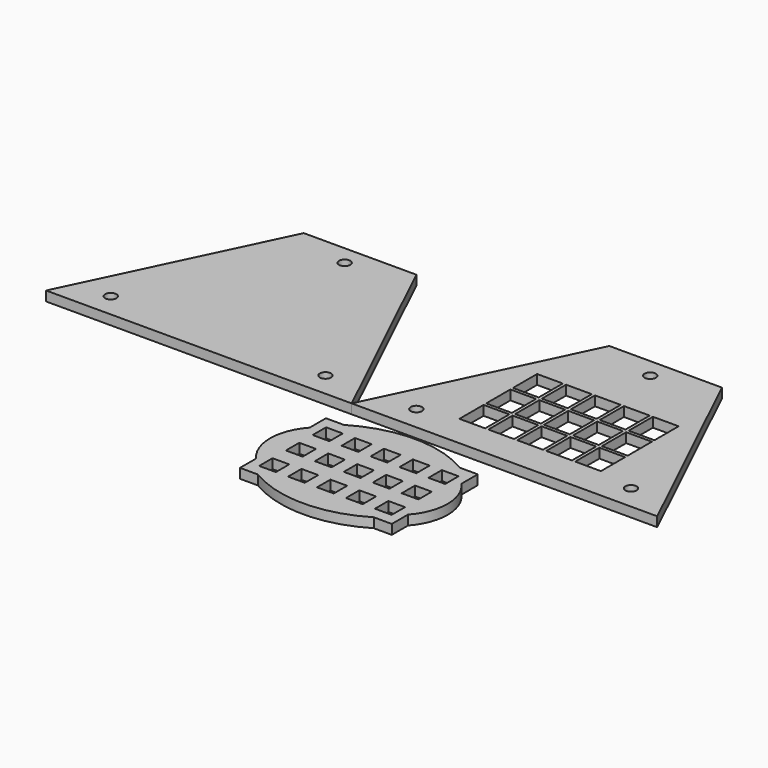
from build123d import *

# Parameters (mm, degrees)
F0_R     = 1.75
F0_W     = 5.2
F0_H     = 5.2
F1_DEPTH = 3
F2_W     = 8
F2_H     = 9.4
F3_DEPTH = 3.001


with BuildPart() as f1:
    # F0 (on Top) → F1 (new body)
    with BuildSketch(Plane.XY):
        Polygon((-95, 0), (0, 0), (-30, 62.65), (-65, 62.65), align=None)
        with Locations((-80.861745, 7.490643)):
            Circle(F0_R, mode=Mode.SUBTRACT)
        with Locations((-14.138255, 7.490643)):
            Circle(F0_R, mode=Mode.SUBTRACT)
        with Locations((-47.5, 56.65)):
            Circle(F0_R, mode=Mode.SUBTRACT)
        Polygon((30, 62.65), (0, 0), (95, 0), (65, 62.65), align=None)
        with Locations((14.138255, 7.490643)):
            Circle(F0_R, mode=Mode.SUBTRACT)
        with Locations((80.861745, 7.490643)):
            Circle(F0_R, mode=Mode.SUBTRACT)
        with Locations((47.5, 56.65)):
            Circle(F0_R, mode=Mode.SUBTRACT)
        Polygon((5.6, -10), (0, -10), (0, -16.3), (0, -37.1), (0, -43.4), (5.6, -43.4), (41.6, -43.4), (47.2, -43.4), (47.2, -37.1), (47.2, -16.3), (47.2, -10), (41.6, -10), align=None)
        with Locations((5.6, -37.1)):
            Rectangle(F0_W, F0_H, mode=Mode.SUBTRACT)
        with Locations((14.6, -37.1)):
            Rectangle(F0_W, F0_H, mode=Mode.SUBTRACT)
        with Locations((23.6, -37.1)):
            Rectangle(F0_W, F0_H, mode=Mode.SUBTRACT)
        with Locations((32.6, -37.1)):
            Rectangle(F0_W, F0_H, mode=Mode.SUBTRACT)
        with Locations((41.6, -37.1)):
            Rectangle(F0_W, F0_H, mode=Mode.SUBTRACT)
        with Locations((5.6, -26.7)):
            Rectangle(F0_W, F0_H, mode=Mode.SUBTRACT)
        with Locations((14.6, -26.7)):
            Rectangle(F0_W, F0_H, mode=Mode.SUBTRACT)
        with Locations((23.6, -26.7)):
            Rectangle(F0_W, F0_H, mode=Mode.SUBTRACT)
        with Locations((32.6, -26.7)):
            Rectangle(F0_W, F0_H, mode=Mode.SUBTRACT)
        with Locations((41.6, -26.7)):
            Rectangle(F0_W, F0_H, mode=Mode.SUBTRACT)
        with Locations((5.6, -16.3)):
            Rectangle(F0_W, F0_H, mode=Mode.SUBTRACT)
        with Locations((14.6, -16.3)):
            Rectangle(F0_W, F0_H, mode=Mode.SUBTRACT)
        with Locations((23.6, -16.3)):
            Rectangle(F0_W, F0_H, mode=Mode.SUBTRACT)
        with Locations((32.6, -16.3)):
            Rectangle(F0_W, F0_H, mode=Mode.SUBTRACT)
        with Locations((41.6, -16.3)):
            Rectangle(F0_W, F0_H, mode=Mode.SUBTRACT)
        with BuildLine():
            Line((41.6, -43.4), (5.6, -43.4))
            ThreePointArc((5.6, -43.4), (23.6, -48.4), (41.6, -43.4))
        make_face()
        with BuildLine():
            ThreePointArc((47.2, -37.1), (51.2, -26.7), (47.2, -16.3))
            Line((47.2, -16.3), (47.2, -37.1))
        make_face()
        with BuildLine():
            ThreePointArc((41.6, -10), (23.6, -5), (5.6, -10))
            Line((5.6, -10), (41.6, -10))
        make_face()
        with BuildLine():
            Line((0, -37.1), (0, -16.3))
            ThreePointArc((0, -16.3), (-4, -26.7), (0, -37.1))
        make_face()
    extrude(amount=F1_DEPTH)

    # F2 (on face) → F3 (cut, through all)
    with BuildSketch(Plane.XY.offset(3)):
        with Locations((29.5, 14.7)):
            Rectangle(F2_W, F2_H)
        with Locations((29.5, 25.1)):
            Rectangle(F2_W, F2_H)
        with Locations((29.5, 35.5)):
            Rectangle(F2_W, F2_H)
        with Locations((38.5, 14.7)):
            Rectangle(F2_W, F2_H)
        with Locations((38.5, 25.1)):
            Rectangle(F2_W, F2_H)
        with Locations((38.5, 35.5)):
            Rectangle(F2_W, F2_H)
        with Locations((47.5, 14.7)):
            Rectangle(F2_W, F2_H)
        with Locations((47.5, 25.1)):
            Rectangle(F2_W, F2_H)
        with Locations((47.5, 35.5)):
            Rectangle(F2_W, F2_H)
        with Locations((56.5, 14.7)):
            Rectangle(F2_W, F2_H)
        with Locations((56.5, 25.1)):
            Rectangle(F2_W, F2_H)
        with Locations((56.5, 35.5)):
            Rectangle(F2_W, F2_H)
        with Locations((65.5, 14.7)):
            Rectangle(F2_W, F2_H)
        with Locations((65.5, 25.1)):
            Rectangle(F2_W, F2_H)
        with Locations((65.5, 35.5)):
            Rectangle(F2_W, F2_H)
    extrude(amount=-F3_DEPTH, mode=Mode.SUBTRACT)


solid = f1.part
